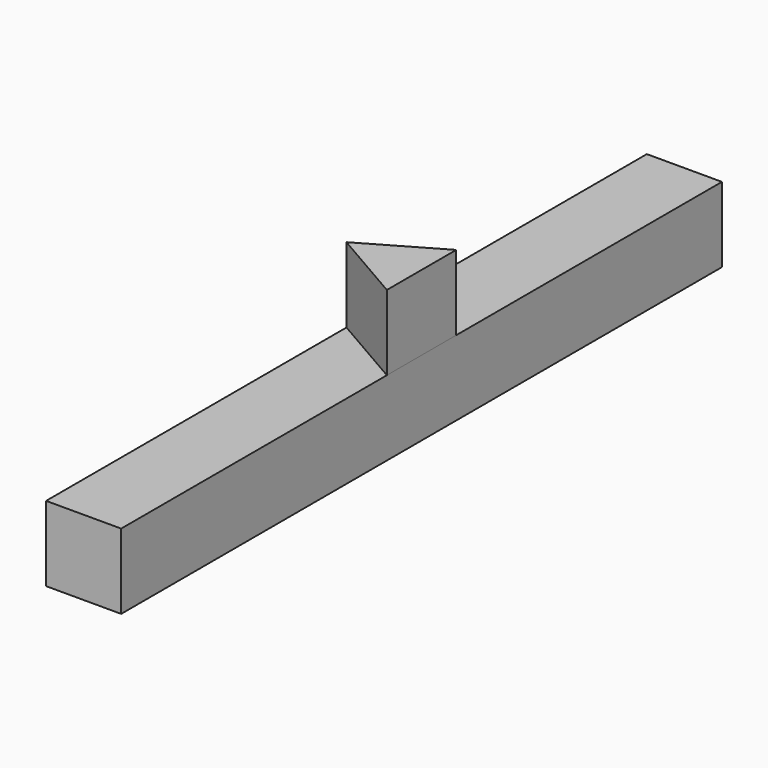
from build123d import *

# Parameters (mm, degrees)
F0_W     = 2.54
F0_H     = 25.4
F1_DEPTH = 2.54
F3_DEPTH = 2.54


with BuildPart() as f1:
    # F0 (on Top) → F1 (new body)
    with BuildSketch(Plane.XY):
        with Locations((1.27, 12.7)):
            Rectangle(F0_W, F0_H)
    extrude(amount=-F1_DEPTH)


with BuildPart() as f3:
    # F2 (on Top) → F3 (new body)
    with BuildSketch(Plane.XY):
        Polygon((2.54, 11.23353), (2.54, 14.16647), (0, 12.7), align=None)
    extrude(amount=F3_DEPTH)


solid = Compound([f1.part, f3.part])
